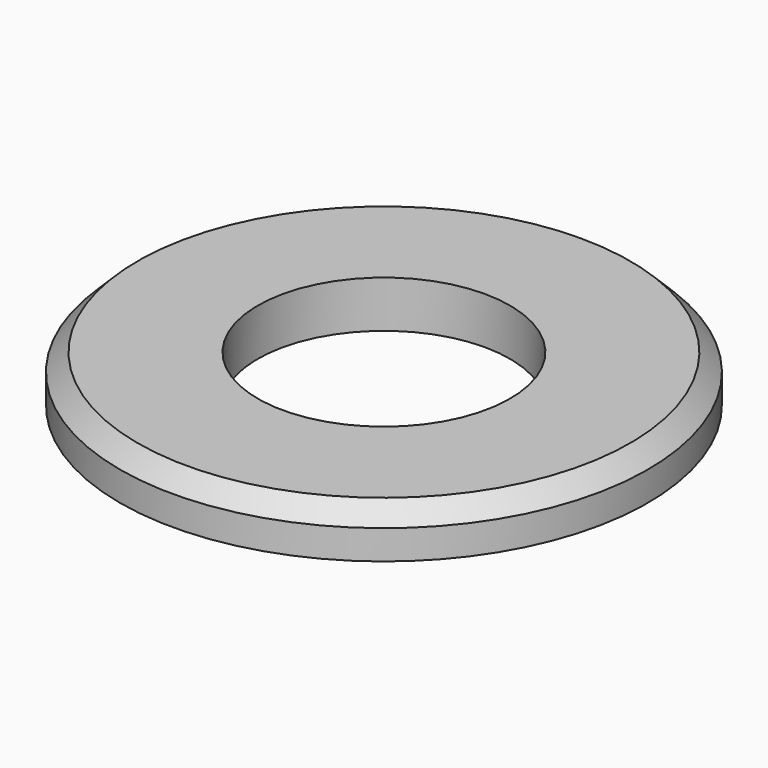
from build123d import *


with BuildPart() as part:
    # Sketch → Revolution (revolve)
    with BuildSketch(Plane.YZ):
        Polygon((2.15, 0), (4.5, 0), (4.5, 0.5), (4.2, 0.8), (2.15, 0.8), align=None)
    revolve(axis=Axis((0, 0, 0), (0, 0, 1)))


solid = part.part
